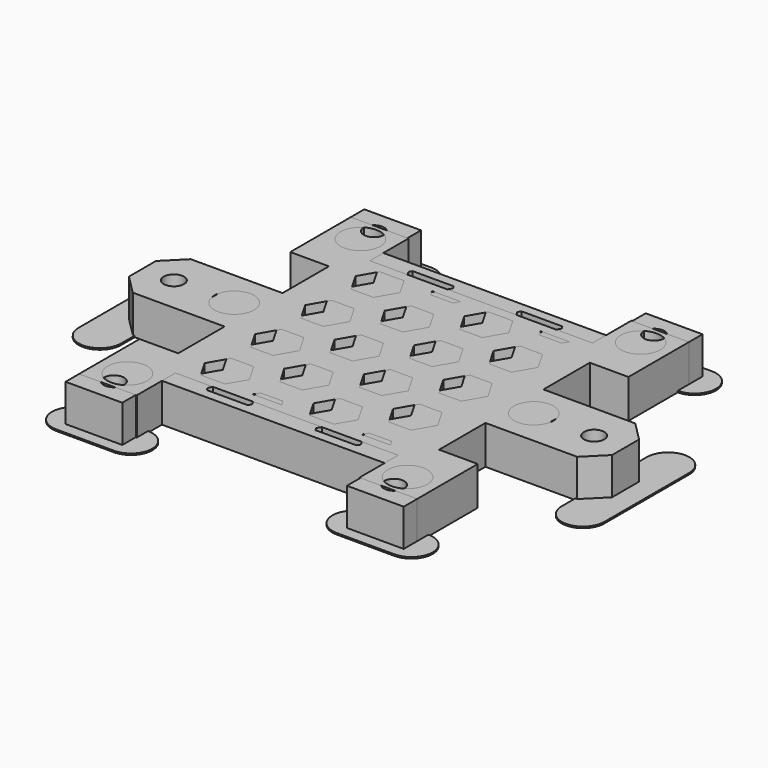
from build123d import *

# Parameters (mm, degrees)
SKETCH_W         = 70
SKETCH_H         = 77.3
PAD_DEPTH        = 8
HONEYCOMB_W      = 109
HONEYCOMB_H      = 99.592922
EXTRUDE_DEPTH    = 8
SKETCH001_W      = 70
SKETCH001_H      = 77.3
SKETCH001_W_2    = 54
SKETCH001_H_2    = 53.3
PAD001_DEPTH     = 8
SKETCH002_W      = 46.5
SKETCH002_H      = 10
POCKET_DEPTH     = 8.001
SKETCH003_W      = 8
SKETCH003_H      = 12
POCKET001_DEPTH  = 8.001
SKETCH004_R      = 2.1
POCKET002_DEPTH  = 8.001
SKETCH005_W      = 70
SKETCH005_H      = 70.3
SKETCH005_W_2    = 46
SKETCH005_H_2    = 46.3
PAD002_DEPTH     = 8
SKETCH006_R      = 4.1
POCKET003_DEPTH  = 3.5
SKETCH007_R      = 2.1
POCKET004_DEPTH  = 4.501
SKETCH008_W      = 8
SKETCH008_H      = 12
POCKET005_DEPTH  = 8.001
SKETCH009_W      = 46.1
SKETCH009_H      = 10
POCKET006_DEPTH  = 8.001
SKETCH010_R      = 2.1
POCKET007_DEPTH  = 8.001
SKETCH012_W      = 15
SKETCH012_H      = 8
PAD003_DEPTH     = 15
SKETCH013_W      = 15
SKETCH013_H      = 8
PAD004_DEPTH     = 15
SKETCH011_R      = 4.1
POCKET008_DEPTH  = 3.5
POCKET009_DEPTH  = 8.001
SKETCH015_R      = 2.1
POCKET010_DEPTH  = 8.001
SKETCH016_W      = 46
SKETCH016_H      = 46.3
PAD005_DEPTH     = 8
HONEYCOMB001_W   = 109
HONEYCOMB001_H   = 99.592922
EXTRUDE001_DEPTH = 8
PAD006_DEPTH     = 0.3


with BuildPart() as pad:
    # Sketch → Pad (new body)
    with BuildSketch(Plane.XY):
        Rectangle(SKETCH_W, SKETCH_H)
    extrude(amount=PAD_DEPTH)


with BuildPart() as pocket002:
    # Honeycomb → Extrude (new body)
    with BuildSketch(Plane(origin=(-5.334265, 0, 0), x_dir=(0, 1, 0), z_dir=(0, 0, 1))):
        with Locations((0, 0.165735)):
            Rectangle(HONEYCOMB_W, HONEYCOMB_H)
        Polygon((-41.5, 37.26049), (-45.5, 34.951089), (-49.5, 37.26049), (-49.5, 41.879292), (-45.5, 44.188693), (-41.5, 41.879292), align=None, mode=Mode.SUBTRACT)
        Polygon((-28.5, 37.26049), (-32.5, 34.951089), (-36.5, 37.26049), (-36.5, 41.879292), (-32.5, 44.188693), (-28.5, 41.879292), align=None, mode=Mode.SUBTRACT)
        Polygon((-15.5, 37.26049), (-19.5, 34.951089), (-23.5, 37.26049), (-23.5, 41.879292), (-19.5, 44.188693), (-15.5, 41.879292), align=None, mode=Mode.SUBTRACT)
        Polygon((-2.5, 37.26049), (-6.5, 34.951089), (-10.5, 37.26049), (-10.5, 41.879292), (-6.5, 44.188693), (-2.5, 41.879292), align=None, mode=Mode.SUBTRACT)
        Polygon((10.5, 37.26049), (6.5, 34.951089), (2.5, 37.26049), (2.5, 41.879292), (6.5, 44.188693), (10.5, 41.879292), align=None, mode=Mode.SUBTRACT)
        Polygon((23.5, 37.26049), (19.5, 34.951089), (15.5, 37.26049), (15.5, 41.879292), (19.5, 44.188693), (23.5, 41.879292), align=None, mode=Mode.SUBTRACT)
        Polygon((36.5, 37.26049), (32.5, 34.951089), (28.5, 37.26049), (28.5, 41.879292), (32.5, 44.188693), (36.5, 41.879292), align=None, mode=Mode.SUBTRACT)
        Polygon((49.5, 37.26049), (45.5, 34.951089), (41.5, 37.26049), (41.5, 41.879292), (45.5, 44.188693), (49.5, 41.879292), align=None, mode=Mode.SUBTRACT)
        Polygon((-35, 26.00216), (-39, 23.692759), (-43, 26.00216), (-43, 30.620962), (-39, 32.930363), (-35, 30.620962), align=None, mode=Mode.SUBTRACT)
        Polygon((-22, 26.00216), (-26, 23.692759), (-30, 26.00216), (-30, 30.620962), (-26, 32.930363), (-22, 30.620962), align=None, mode=Mode.SUBTRACT)
        Polygon((-9, 26.00216), (-13, 23.692759), (-17, 26.00216), (-17, 30.620962), (-13, 32.930363), (-9, 30.620962), align=None, mode=Mode.SUBTRACT)
        Polygon((4, 26.00216), (0, 23.692759), (-4, 26.00216), (-4, 30.620962), (0, 32.930363), (4, 30.620962), align=None, mode=Mode.SUBTRACT)
        Polygon((17, 26.00216), (13, 23.692759), (9, 26.00216), (9, 30.620962), (13, 32.930363), (17, 30.620962), align=None, mode=Mode.SUBTRACT)
        Polygon((30, 26.00216), (26, 23.692759), (22, 26.00216), (22, 30.620962), (26, 32.930363), (30, 30.620962), align=None, mode=Mode.SUBTRACT)
        Polygon((43, 26.00216), (39, 23.692759), (35, 26.00216), (35, 30.620962), (39, 32.930363), (43, 30.620962), align=None, mode=Mode.SUBTRACT)
        Polygon((-41.5, 14.743829), (-45.5, 12.434428), (-49.5, 14.743829), (-49.5, 19.362632), (-45.5, 21.672033), (-41.5, 19.362632), align=None, mode=Mode.SUBTRACT)
        Polygon((-28.5, 14.743829), (-32.5, 12.434428), (-36.5, 14.743829), (-36.5, 19.362632), (-32.5, 21.672033), (-28.5, 19.362632), align=None, mode=Mode.SUBTRACT)
        Polygon((-15.5, 14.743829), (-19.5, 12.434428), (-23.5, 14.743829), (-23.5, 19.362632), (-19.5, 21.672033), (-15.5, 19.362632), align=None, mode=Mode.SUBTRACT)
        Polygon((-2.5, 14.743829), (-6.5, 12.434428), (-10.5, 14.743829), (-10.5, 19.362632), (-6.5, 21.672033), (-2.5, 19.362632), align=None, mode=Mode.SUBTRACT)
        Polygon((10.5, 14.743829), (6.5, 12.434428), (2.5, 14.743829), (2.5, 19.362632), (6.5, 21.672033), (10.5, 19.362632), align=None, mode=Mode.SUBTRACT)
        Polygon((23.5, 14.743829), (19.5, 12.434428), (15.5, 14.743829), (15.5, 19.362632), (19.5, 21.672033), (23.5, 19.362632), align=None, mode=Mode.SUBTRACT)
        Polygon((36.5, 14.743829), (32.5, 12.434428), (28.5, 14.743829), (28.5, 19.362632), (32.5, 21.672033), (36.5, 19.362632), align=None, mode=Mode.SUBTRACT)
        Polygon((49.5, 14.743829), (45.5, 12.434428), (41.5, 14.743829), (41.5, 19.362632), (45.5, 21.672033), (49.5, 19.362632), align=None, mode=Mode.SUBTRACT)
        Polygon((-35, 3.485499), (-39, 1.176098), (-43, 3.485499), (-43, 8.104301), (-39, 10.413702), (-35, 8.104301), align=None, mode=Mode.SUBTRACT)
        Polygon((-22, 3.485499), (-26, 1.176098), (-30, 3.485499), (-30, 8.104301), (-26, 10.413702), (-22, 8.104301), align=None, mode=Mode.SUBTRACT)
        Polygon((-9, 3.485499), (-13, 1.176098), (-17, 3.485499), (-17, 8.104301), (-13, 10.413702), (-9, 8.104301), align=None, mode=Mode.SUBTRACT)
        Polygon((4, 3.485499), (0, 1.176098), (-4, 3.485499), (-4, 8.104301), (0, 10.413702), (4, 8.104301), align=None, mode=Mode.SUBTRACT)
        Polygon((17, 3.485499), (13, 1.176098), (9, 3.485499), (9, 8.104301), (13, 10.413702), (17, 8.104301), align=None, mode=Mode.SUBTRACT)
        Polygon((30, 3.485499), (26, 1.176098), (22, 3.485499), (22, 8.104301), (26, 10.413702), (30, 8.104301), align=None, mode=Mode.SUBTRACT)
        Polygon((43, 3.485499), (39, 1.176098), (35, 3.485499), (35, 8.104301), (39, 10.413702), (43, 8.104301), align=None, mode=Mode.SUBTRACT)
        Polygon((-41.5, -7.772831), (-45.5, -10.082232), (-49.5, -7.772831), (-49.5, -3.154029), (-45.5, -0.844628), (-41.5, -3.154029), align=None, mode=Mode.SUBTRACT)
        Polygon((-28.5, -7.772831), (-32.5, -10.082232), (-36.5, -7.772831), (-36.5, -3.154029), (-32.5, -0.844628), (-28.5, -3.154029), align=None, mode=Mode.SUBTRACT)
        Polygon((-15.5, -7.772831), (-19.5, -10.082232), (-23.5, -7.772831), (-23.5, -3.154029), (-19.5, -0.844628), (-15.5, -3.154029), align=None, mode=Mode.SUBTRACT)
        Polygon((-2.5, -7.772831), (-6.5, -10.082232), (-10.5, -7.772831), (-10.5, -3.154029), (-6.5, -0.844628), (-2.5, -3.154029), align=None, mode=Mode.SUBTRACT)
        Polygon((10.5, -7.772831), (6.5, -10.082232), (2.5, -7.772831), (2.5, -3.154029), (6.5, -0.844628), (10.5, -3.154029), align=None, mode=Mode.SUBTRACT)
        Polygon((23.5, -7.772831), (19.5, -10.082232), (15.5, -7.772831), (15.5, -3.154029), (19.5, -0.844628), (23.5, -3.154029), align=None, mode=Mode.SUBTRACT)
        Polygon((36.5, -7.772831), (32.5, -10.082232), (28.5, -7.772831), (28.5, -3.154029), (32.5, -0.844628), (36.5, -3.154029), align=None, mode=Mode.SUBTRACT)
        Polygon((49.5, -7.772831), (45.5, -10.082232), (41.5, -7.772831), (41.5, -3.154029), (45.5, -0.844628), (49.5, -3.154029), align=None, mode=Mode.SUBTRACT)
        Polygon((-35, -19.031161), (-39, -21.340562), (-43, -19.031161), (-43, -14.412359), (-39, -12.102958), (-35, -14.412359), align=None, mode=Mode.SUBTRACT)
        Polygon((-22, -19.031161), (-26, -21.340562), (-30, -19.031161), (-30, -14.412359), (-26, -12.102958), (-22, -14.412359), align=None, mode=Mode.SUBTRACT)
        Polygon((-9, -19.031161), (-13, -21.340562), (-17, -19.031161), (-17, -14.412359), (-13, -12.102958), (-9, -14.412359), align=None, mode=Mode.SUBTRACT)
        Polygon((4, -19.031161), (0, -21.340562), (-4, -19.031161), (-4, -14.412359), (0, -12.102958), (4, -14.412359), align=None, mode=Mode.SUBTRACT)
        Polygon((17, -19.031161), (13, -21.340562), (9, -19.031161), (9, -14.412359), (13, -12.102958), (17, -14.412359), align=None, mode=Mode.SUBTRACT)
        Polygon((30, -19.031161), (26, -21.340562), (22, -19.031161), (22, -14.412359), (26, -12.102958), (30, -14.412359), align=None, mode=Mode.SUBTRACT)
        Polygon((43, -19.031161), (39, -21.340562), (35, -19.031161), (35, -14.412359), (39, -12.102958), (43, -14.412359), align=None, mode=Mode.SUBTRACT)
        Polygon((-41.5, -30.289492), (-45.5, -32.598893), (-49.5, -30.289492), (-49.5, -25.670689), (-45.5, -23.361288), (-41.5, -25.670689), align=None, mode=Mode.SUBTRACT)
        Polygon((-28.5, -30.289492), (-32.5, -32.598893), (-36.5, -30.289492), (-36.5, -25.670689), (-32.5, -23.361288), (-28.5, -25.670689), align=None, mode=Mode.SUBTRACT)
        Polygon((-15.5, -30.289492), (-19.5, -32.598893), (-23.5, -30.289492), (-23.5, -25.670689), (-19.5, -23.361288), (-15.5, -25.670689), align=None, mode=Mode.SUBTRACT)
        Polygon((-2.5, -30.289492), (-6.5, -32.598893), (-10.5, -30.289492), (-10.5, -25.670689), (-6.5, -23.361288), (-2.5, -25.670689), align=None, mode=Mode.SUBTRACT)
        Polygon((10.5, -30.289492), (6.5, -32.598893), (2.5, -30.289492), (2.5, -25.670689), (6.5, -23.361288), (10.5, -25.670689), align=None, mode=Mode.SUBTRACT)
        Polygon((23.5, -30.289492), (19.5, -32.598893), (15.5, -30.289492), (15.5, -25.670689), (19.5, -23.361288), (23.5, -25.670689), align=None, mode=Mode.SUBTRACT)
        Polygon((36.5, -30.289492), (32.5, -32.598893), (28.5, -30.289492), (28.5, -25.670689), (32.5, -23.361288), (36.5, -25.670689), align=None, mode=Mode.SUBTRACT)
        Polygon((49.5, -30.289492), (45.5, -32.598893), (41.5, -30.289492), (41.5, -25.670689), (45.5, -23.361288), (49.5, -25.670689), align=None, mode=Mode.SUBTRACT)
        Polygon((-35, -41.547822), (-39, -43.857223), (-43, -41.547822), (-43, -36.92902), (-39, -34.619619), (-35, -36.92902), align=None, mode=Mode.SUBTRACT)
        Polygon((-22, -41.547822), (-26, -43.857223), (-30, -41.547822), (-30, -36.92902), (-26, -34.619619), (-22, -36.92902), align=None, mode=Mode.SUBTRACT)
        Polygon((-9, -41.547822), (-13, -43.857223), (-17, -41.547822), (-17, -36.92902), (-13, -34.619619), (-9, -36.92902), align=None, mode=Mode.SUBTRACT)
        Polygon((4, -41.547822), (0, -43.857223), (-4, -41.547822), (-4, -36.92902), (0, -34.619619), (4, -36.92902), align=None, mode=Mode.SUBTRACT)
        Polygon((17, -41.547822), (13, -43.857223), (9, -41.547822), (9, -36.92902), (13, -34.619619), (17, -36.92902), align=None, mode=Mode.SUBTRACT)
        Polygon((30, -41.547822), (26, -43.857223), (22, -41.547822), (22, -36.92902), (26, -34.619619), (30, -36.92902), align=None, mode=Mode.SUBTRACT)
        Polygon((43, -41.547822), (39, -43.857223), (35, -41.547822), (35, -36.92902), (39, -34.619619), (43, -36.92902), align=None, mode=Mode.SUBTRACT)
    extrude(amount=EXTRUDE_DEPTH)

    # Common: intersect Pad
    add(pad.part, mode=Mode.INTERSECT)

    # Sketch001 → Pad001 (new body)
    with BuildSketch(Plane.XY.offset(8)):
        Rectangle(SKETCH001_W, SKETCH001_H)
        Rectangle(SKETCH001_W_2, SKETCH001_H_2, mode=Mode.SUBTRACT)
    extrude(amount=-PAD001_DEPTH)

    # Sketch002 → Pocket (cut, through all)
    with BuildSketch(Plane.XY.offset(8)):
        with Locations((0, 33.65)):
            Rectangle(SKETCH002_W, SKETCH002_H)
        with Locations((0, -33.65)):
            Rectangle(SKETCH002_W, SKETCH002_H)
    extrude(amount=-POCKET_DEPTH, mode=Mode.SUBTRACT)

    # Sketch003 → Pocket001 (cut, through all)
    with BuildSketch(Plane.XY.offset(8)):
        with Locations((-31, 13.5)):
            Rectangle(SKETCH003_W, SKETCH003_H)
        with Locations((-31, -13.5)):
            Rectangle(SKETCH003_W, SKETCH003_H)
        with Locations((31, 13.5)):
            Rectangle(SKETCH003_W, SKETCH003_H)
        with Locations((31, -13.5)):
            Rectangle(SKETCH003_W, SKETCH003_H)
    extrude(amount=-POCKET001_DEPTH, mode=Mode.SUBTRACT)

    # Sketch004 → Pocket002 (cut, through all)
    with BuildSketch(Plane.XY.offset(8)):
        with Locations((-29, 33.65)):
            Circle(SKETCH004_R)
        with Locations((29, 33.65)):
            Circle(SKETCH004_R)
        with Locations((-29, -33.65)):
            Circle(SKETCH004_R)
        with Locations((29, -33.65)):
            Circle(SKETCH004_R)
    extrude(amount=-POCKET002_DEPTH, mode=Mode.SUBTRACT)


with BuildPart() as pocket010:
    # Sketch005 → Pad002 (new body)
    with BuildSketch(Plane.XY):
        Rectangle(SKETCH005_W, SKETCH005_H)
        Rectangle(SKETCH005_W_2, SKETCH005_H_2, mode=Mode.SUBTRACT)
    extrude(amount=PAD002_DEPTH)

    # Sketch006 → Pocket003 (cut)
    with BuildSketch(Plane.XY.offset(8)):
        with Locations((-29, 30.15)):
            Circle(SKETCH006_R)
        with Locations((29, 30.15)):
            Circle(SKETCH006_R)
        with Locations((-29, -30.15)):
            Circle(SKETCH006_R)
        with Locations((29, -30.15)):
            Circle(SKETCH006_R)
    extrude(amount=-POCKET003_DEPTH, mode=Mode.SUBTRACT)

    # Sketch007 → Pocket004 (cut, through all)
    with BuildSketch(Plane.XY.offset(4.5)):
        with Locations((-29, 30.15)):
            Circle(SKETCH007_R)
        with Locations((-29, -30.15)):
            Circle(SKETCH007_R)
        with Locations((29, 30.15)):
            Circle(SKETCH007_R)
        with Locations((29, -30.15)):
            Circle(SKETCH007_R)
    extrude(amount=-POCKET004_DEPTH, mode=Mode.SUBTRACT)

    # Sketch008 → Pocket005 (cut, through all)
    with BuildSketch(Plane.XY.offset(8)):
        with Locations((-31, 13.5)):
            Rectangle(SKETCH008_W, SKETCH008_H)
        with Locations((-31, -13.5)):
            Rectangle(SKETCH008_W, SKETCH008_H)
        with Locations((31, -13.5)):
            Rectangle(SKETCH008_W, SKETCH008_H)
        with Locations((31, 13.5)):
            Rectangle(SKETCH008_W, SKETCH008_H)
    extrude(amount=-POCKET005_DEPTH, mode=Mode.SUBTRACT)

    # Sketch009 → Pocket006 (cut, through all)
    with BuildSketch(Plane.XY.offset(8)):
        with Locations((0, 30.15)):
            Rectangle(SKETCH009_W, SKETCH009_H)
        with Locations((0, -30.15)):
            Rectangle(SKETCH009_W, SKETCH009_H)
    extrude(amount=-POCKET006_DEPTH, mode=Mode.SUBTRACT)

    # Sketch010 → Pocket007 (cut, through all)
    with BuildSketch(Plane.XY.offset(8)):
        with Locations((31, 0)):
            Circle(SKETCH010_R)
        with Locations((-31, 0)):
            Circle(SKETCH010_R)
    extrude(amount=-POCKET007_DEPTH, mode=Mode.SUBTRACT)

    # Sketch012 → Pad003 (new body)
    with BuildSketch(Plane(origin=(-35, 0, 0), x_dir=(0, -1, 0), z_dir=(-1, 0, 0))):
        with Locations((0, 4)):
            Rectangle(SKETCH012_W, SKETCH012_H)
    extrude(amount=PAD003_DEPTH)

    # Sketch013 → Pad004 (new body)
    with BuildSketch(Plane.YZ.offset(35)):
        with Locations((0, 4)):
            Rectangle(SKETCH013_W, SKETCH013_H)
    extrude(amount=PAD004_DEPTH)

    # Sketch011 → Pocket008 (cut)
    with BuildSketch(Plane.XY.offset(8)):
        with Locations((-31, 0)):
            Circle(SKETCH011_R)
        with Locations((31, 0)):
            Circle(SKETCH011_R)
    extrude(amount=-POCKET008_DEPTH, mode=Mode.SUBTRACT)

    # Sketch014 → Pocket009 (cut, through all)
    with BuildSketch(Plane.XY.offset(8)):
        Polygon((-46, 7.5), (-50, 3.5), (-50, 7.5), align=None)
        Polygon((50, 7.5), (46, 7.5), (50, 3.5), align=None)
        Polygon((50, -3.5), (50, -7.5), (46, -7.5), align=None)
        Polygon((-50, -3.5), (-50, -7.5), (-46, -7.5), align=None)
    extrude(amount=-POCKET009_DEPTH, mode=Mode.SUBTRACT)

    # Sketch015 → Pocket010 (cut, through all)
    with BuildSketch(Plane.XY.offset(8)):
        with Locations((-43.5, 0)):
            Circle(SKETCH015_R)
        with Locations((43.5, 0)):
            Circle(SKETCH015_R)
    extrude(amount=-POCKET010_DEPTH, mode=Mode.SUBTRACT)


with BuildPart() as pad005:
    # Sketch016 → Pad005 (new body)
    with BuildSketch(Plane.XY):
        Rectangle(SKETCH016_W, SKETCH016_H)
    extrude(amount=PAD005_DEPTH)


with BuildPart() as obj1:
    # Honeycomb001 → Extrude001 (new body)
    with BuildSketch(Plane(origin=(0.165735, 0, 0), x_dir=(0, 1, 0), z_dir=(0, 0, 1))):
        with Locations((0, 0.165735)):
            Rectangle(HONEYCOMB001_W, HONEYCOMB001_H)
        Polygon((-41.5, 37.26049), (-45.5, 34.951089), (-49.5, 37.26049), (-49.5, 41.879292), (-45.5, 44.188693), (-41.5, 41.879292), align=None, mode=Mode.SUBTRACT)
        Polygon((-28.5, 37.26049), (-32.5, 34.951089), (-36.5, 37.26049), (-36.5, 41.879292), (-32.5, 44.188693), (-28.5, 41.879292), align=None, mode=Mode.SUBTRACT)
        Polygon((-15.5, 37.26049), (-19.5, 34.951089), (-23.5, 37.26049), (-23.5, 41.879292), (-19.5, 44.188693), (-15.5, 41.879292), align=None, mode=Mode.SUBTRACT)
        Polygon((-2.5, 37.26049), (-6.5, 34.951089), (-10.5, 37.26049), (-10.5, 41.879292), (-6.5, 44.188693), (-2.5, 41.879292), align=None, mode=Mode.SUBTRACT)
        Polygon((10.5, 37.26049), (6.5, 34.951089), (2.5, 37.26049), (2.5, 41.879292), (6.5, 44.188693), (10.5, 41.879292), align=None, mode=Mode.SUBTRACT)
        Polygon((23.5, 37.26049), (19.5, 34.951089), (15.5, 37.26049), (15.5, 41.879292), (19.5, 44.188693), (23.5, 41.879292), align=None, mode=Mode.SUBTRACT)
        Polygon((36.5, 37.26049), (32.5, 34.951089), (28.5, 37.26049), (28.5, 41.879292), (32.5, 44.188693), (36.5, 41.879292), align=None, mode=Mode.SUBTRACT)
        Polygon((49.5, 37.26049), (45.5, 34.951089), (41.5, 37.26049), (41.5, 41.879292), (45.5, 44.188693), (49.5, 41.879292), align=None, mode=Mode.SUBTRACT)
        Polygon((-35, 26.00216), (-39, 23.692759), (-43, 26.00216), (-43, 30.620962), (-39, 32.930363), (-35, 30.620962), align=None, mode=Mode.SUBTRACT)
        Polygon((-22, 26.00216), (-26, 23.692759), (-30, 26.00216), (-30, 30.620962), (-26, 32.930363), (-22, 30.620962), align=None, mode=Mode.SUBTRACT)
        Polygon((-9, 26.00216), (-13, 23.692759), (-17, 26.00216), (-17, 30.620962), (-13, 32.930363), (-9, 30.620962), align=None, mode=Mode.SUBTRACT)
        Polygon((4, 26.00216), (0, 23.692759), (-4, 26.00216), (-4, 30.620962), (0, 32.930363), (4, 30.620962), align=None, mode=Mode.SUBTRACT)
        Polygon((17, 26.00216), (13, 23.692759), (9, 26.00216), (9, 30.620962), (13, 32.930363), (17, 30.620962), align=None, mode=Mode.SUBTRACT)
        Polygon((30, 26.00216), (26, 23.692759), (22, 26.00216), (22, 30.620962), (26, 32.930363), (30, 30.620962), align=None, mode=Mode.SUBTRACT)
        Polygon((43, 26.00216), (39, 23.692759), (35, 26.00216), (35, 30.620962), (39, 32.930363), (43, 30.620962), align=None, mode=Mode.SUBTRACT)
        Polygon((-41.5, 14.743829), (-45.5, 12.434428), (-49.5, 14.743829), (-49.5, 19.362632), (-45.5, 21.672033), (-41.5, 19.362632), align=None, mode=Mode.SUBTRACT)
        Polygon((-28.5, 14.743829), (-32.5, 12.434428), (-36.5, 14.743829), (-36.5, 19.362632), (-32.5, 21.672033), (-28.5, 19.362632), align=None, mode=Mode.SUBTRACT)
        Polygon((-15.5, 14.743829), (-19.5, 12.434428), (-23.5, 14.743829), (-23.5, 19.362632), (-19.5, 21.672033), (-15.5, 19.362632), align=None, mode=Mode.SUBTRACT)
        Polygon((-2.5, 14.743829), (-6.5, 12.434428), (-10.5, 14.743829), (-10.5, 19.362632), (-6.5, 21.672033), (-2.5, 19.362632), align=None, mode=Mode.SUBTRACT)
        Polygon((10.5, 14.743829), (6.5, 12.434428), (2.5, 14.743829), (2.5, 19.362632), (6.5, 21.672033), (10.5, 19.362632), align=None, mode=Mode.SUBTRACT)
        Polygon((23.5, 14.743829), (19.5, 12.434428), (15.5, 14.743829), (15.5, 19.362632), (19.5, 21.672033), (23.5, 19.362632), align=None, mode=Mode.SUBTRACT)
        Polygon((36.5, 14.743829), (32.5, 12.434428), (28.5, 14.743829), (28.5, 19.362632), (32.5, 21.672033), (36.5, 19.362632), align=None, mode=Mode.SUBTRACT)
        Polygon((49.5, 14.743829), (45.5, 12.434428), (41.5, 14.743829), (41.5, 19.362632), (45.5, 21.672033), (49.5, 19.362632), align=None, mode=Mode.SUBTRACT)
        Polygon((-35, 3.485499), (-39, 1.176098), (-43, 3.485499), (-43, 8.104301), (-39, 10.413702), (-35, 8.104301), align=None, mode=Mode.SUBTRACT)
        Polygon((-22, 3.485499), (-26, 1.176098), (-30, 3.485499), (-30, 8.104301), (-26, 10.413702), (-22, 8.104301), align=None, mode=Mode.SUBTRACT)
        Polygon((-9, 3.485499), (-13, 1.176098), (-17, 3.485499), (-17, 8.104301), (-13, 10.413702), (-9, 8.104301), align=None, mode=Mode.SUBTRACT)
        Polygon((4, 3.485499), (0, 1.176098), (-4, 3.485499), (-4, 8.104301), (0, 10.413702), (4, 8.104301), align=None, mode=Mode.SUBTRACT)
        Polygon((17, 3.485499), (13, 1.176098), (9, 3.485499), (9, 8.104301), (13, 10.413702), (17, 8.104301), align=None, mode=Mode.SUBTRACT)
        Polygon((30, 3.485499), (26, 1.176098), (22, 3.485499), (22, 8.104301), (26, 10.413702), (30, 8.104301), align=None, mode=Mode.SUBTRACT)
        Polygon((43, 3.485499), (39, 1.176098), (35, 3.485499), (35, 8.104301), (39, 10.413702), (43, 8.104301), align=None, mode=Mode.SUBTRACT)
        Polygon((-41.5, -7.772831), (-45.5, -10.082232), (-49.5, -7.772831), (-49.5, -3.154029), (-45.5, -0.844628), (-41.5, -3.154029), align=None, mode=Mode.SUBTRACT)
        Polygon((-28.5, -7.772831), (-32.5, -10.082232), (-36.5, -7.772831), (-36.5, -3.154029), (-32.5, -0.844628), (-28.5, -3.154029), align=None, mode=Mode.SUBTRACT)
        Polygon((-15.5, -7.772831), (-19.5, -10.082232), (-23.5, -7.772831), (-23.5, -3.154029), (-19.5, -0.844628), (-15.5, -3.154029), align=None, mode=Mode.SUBTRACT)
        Polygon((-2.5, -7.772831), (-6.5, -10.082232), (-10.5, -7.772831), (-10.5, -3.154029), (-6.5, -0.844628), (-2.5, -3.154029), align=None, mode=Mode.SUBTRACT)
        Polygon((10.5, -7.772831), (6.5, -10.082232), (2.5, -7.772831), (2.5, -3.154029), (6.5, -0.844628), (10.5, -3.154029), align=None, mode=Mode.SUBTRACT)
        Polygon((23.5, -7.772831), (19.5, -10.082232), (15.5, -7.772831), (15.5, -3.154029), (19.5, -0.844628), (23.5, -3.154029), align=None, mode=Mode.SUBTRACT)
        Polygon((36.5, -7.772831), (32.5, -10.082232), (28.5, -7.772831), (28.5, -3.154029), (32.5, -0.844628), (36.5, -3.154029), align=None, mode=Mode.SUBTRACT)
        Polygon((49.5, -7.772831), (45.5, -10.082232), (41.5, -7.772831), (41.5, -3.154029), (45.5, -0.844628), (49.5, -3.154029), align=None, mode=Mode.SUBTRACT)
        Polygon((-35, -19.031161), (-39, -21.340562), (-43, -19.031161), (-43, -14.412359), (-39, -12.102958), (-35, -14.412359), align=None, mode=Mode.SUBTRACT)
        Polygon((-22, -19.031161), (-26, -21.340562), (-30, -19.031161), (-30, -14.412359), (-26, -12.102958), (-22, -14.412359), align=None, mode=Mode.SUBTRACT)
        Polygon((-9, -19.031161), (-13, -21.340562), (-17, -19.031161), (-17, -14.412359), (-13, -12.102958), (-9, -14.412359), align=None, mode=Mode.SUBTRACT)
        Polygon((4, -19.031161), (0, -21.340562), (-4, -19.031161), (-4, -14.412359), (0, -12.102958), (4, -14.412359), align=None, mode=Mode.SUBTRACT)
        Polygon((17, -19.031161), (13, -21.340562), (9, -19.031161), (9, -14.412359), (13, -12.102958), (17, -14.412359), align=None, mode=Mode.SUBTRACT)
        Polygon((30, -19.031161), (26, -21.340562), (22, -19.031161), (22, -14.412359), (26, -12.102958), (30, -14.412359), align=None, mode=Mode.SUBTRACT)
        Polygon((43, -19.031161), (39, -21.340562), (35, -19.031161), (35, -14.412359), (39, -12.102958), (43, -14.412359), align=None, mode=Mode.SUBTRACT)
        Polygon((-41.5, -30.289492), (-45.5, -32.598893), (-49.5, -30.289492), (-49.5, -25.670689), (-45.5, -23.361288), (-41.5, -25.670689), align=None, mode=Mode.SUBTRACT)
        Polygon((-28.5, -30.289492), (-32.5, -32.598893), (-36.5, -30.289492), (-36.5, -25.670689), (-32.5, -23.361288), (-28.5, -25.670689), align=None, mode=Mode.SUBTRACT)
        Polygon((-15.5, -30.289492), (-19.5, -32.598893), (-23.5, -30.289492), (-23.5, -25.670689), (-19.5, -23.361288), (-15.5, -25.670689), align=None, mode=Mode.SUBTRACT)
        Polygon((-2.5, -30.289492), (-6.5, -32.598893), (-10.5, -30.289492), (-10.5, -25.670689), (-6.5, -23.361288), (-2.5, -25.670689), align=None, mode=Mode.SUBTRACT)
        Polygon((10.5, -30.289492), (6.5, -32.598893), (2.5, -30.289492), (2.5, -25.670689), (6.5, -23.361288), (10.5, -25.670689), align=None, mode=Mode.SUBTRACT)
        Polygon((23.5, -30.289492), (19.5, -32.598893), (15.5, -30.289492), (15.5, -25.670689), (19.5, -23.361288), (23.5, -25.670689), align=None, mode=Mode.SUBTRACT)
        Polygon((36.5, -30.289492), (32.5, -32.598893), (28.5, -30.289492), (28.5, -25.670689), (32.5, -23.361288), (36.5, -25.670689), align=None, mode=Mode.SUBTRACT)
        Polygon((49.5, -30.289492), (45.5, -32.598893), (41.5, -30.289492), (41.5, -25.670689), (45.5, -23.361288), (49.5, -25.670689), align=None, mode=Mode.SUBTRACT)
        Polygon((-35, -41.547822), (-39, -43.857223), (-43, -41.547822), (-43, -36.92902), (-39, -34.619619), (-35, -36.92902), align=None, mode=Mode.SUBTRACT)
        Polygon((-22, -41.547822), (-26, -43.857223), (-30, -41.547822), (-30, -36.92902), (-26, -34.619619), (-22, -36.92902), align=None, mode=Mode.SUBTRACT)
        Polygon((-9, -41.547822), (-13, -43.857223), (-17, -41.547822), (-17, -36.92902), (-13, -34.619619), (-9, -36.92902), align=None, mode=Mode.SUBTRACT)
        Polygon((4, -41.547822), (0, -43.857223), (-4, -41.547822), (-4, -36.92902), (0, -34.619619), (4, -36.92902), align=None, mode=Mode.SUBTRACT)
        Polygon((17, -41.547822), (13, -43.857223), (9, -41.547822), (9, -36.92902), (13, -34.619619), (17, -36.92902), align=None, mode=Mode.SUBTRACT)
        Polygon((30, -41.547822), (26, -43.857223), (22, -41.547822), (22, -36.92902), (26, -34.619619), (30, -36.92902), align=None, mode=Mode.SUBTRACT)
        Polygon((43, -41.547822), (39, -43.857223), (35, -41.547822), (35, -36.92902), (39, -34.619619), (43, -36.92902), align=None, mode=Mode.SUBTRACT)
    extrude(amount=EXTRUDE001_DEPTH)

    # Common001: intersect Pad005
    add(pad005.part, mode=Mode.INTERSECT)

    # Fusion: union Pocket010
    add(pocket010.part)

    # Sketch017 → Pad006 (new body)
    with BuildSketch(Plane(origin=(0, 0, 0), x_dir=(1, 0, 0), z_dir=(0, 0, -1))):
        with BuildLine():
            ThreePointArc((54.4, 11), (50, 15.4), (45.6, 11))
            Line((45.6, 11), (45.6, -11))
            ThreePointArc((45.6, -11), (50, -15.4), (54.4, -11))
            Line((54.4, 11), (54.4, -11))
        make_face()
        with BuildLine():
            ThreePointArc((23.05, 41.05), (18.65, 36.65), (23.05, 32.25))
            Line((23.05, 32.25), (35, 32.25))
            ThreePointArc((35, 32.25), (39.4, 36.65), (35, 41.05))
            Line((23.05, 41.05), (35, 41.05))
        make_face()
        with BuildLine():
            ThreePointArc((-35, 41.05), (-39.4, 36.65), (-35, 32.25))
            Line((-35, 32.25), (-23.05, 32.25))
            ThreePointArc((-23.05, 32.25), (-18.65, 36.65), (-23.05, 41.05))
            Line((-35, 41.05), (-23.05, 41.05))
        make_face()
        with BuildLine():
            ThreePointArc((-45.6, 11), (-50, 15.4), (-54.4, 11))
            Line((-54.4, 11), (-54.4, -11))
            ThreePointArc((-54.4, -11), (-50, -15.4), (-45.6, -11))
            Line((-45.6, 11), (-45.6, -11))
        make_face()
        with BuildLine():
            ThreePointArc((-35, -32.25), (-39.4, -36.65), (-35, -41.05))
            Line((-35, -41.05), (-23.05, -41.05))
            ThreePointArc((-23.05, -41.05), (-18.65, -36.65), (-23.05, -32.25))
            Line((-35, -32.25), (-23.05, -32.25))
        make_face()
        with BuildLine():
            ThreePointArc((23.05, -32.25), (18.65, -36.65), (23.05, -41.05))
            Line((23.05, -41.05), (35, -41.05))
            ThreePointArc((35, -41.05), (39.4, -36.65), (35, -32.25))
            Line((23.05, -32.25), (35, -32.25))
        make_face()
    extrude(amount=-PAD006_DEPTH)


solid = Compound([pocket002.part, obj1.part])
